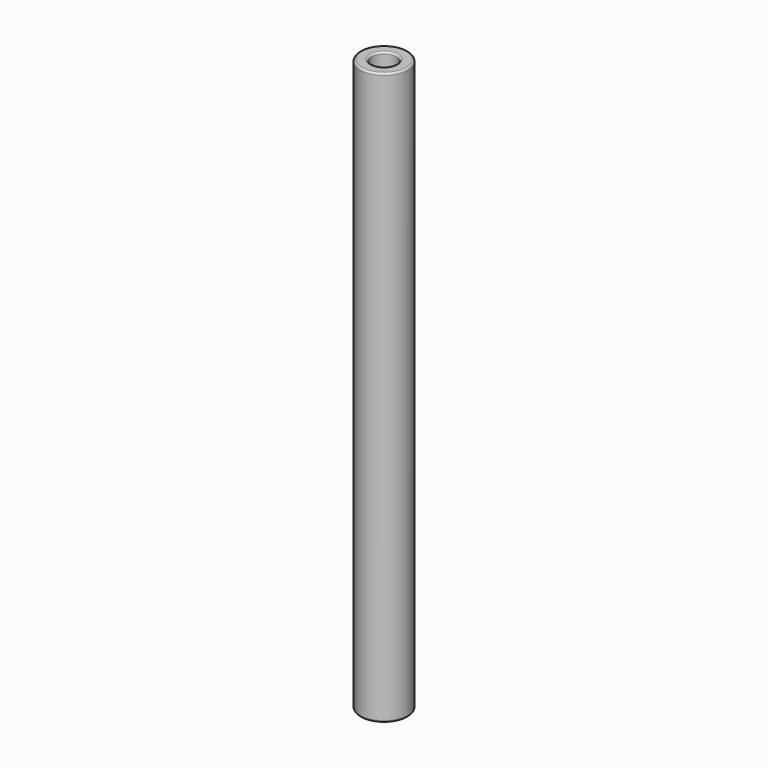
from build123d import *

# Parameters (mm, degrees)
F0_R     = 2.5
F1_DEPTH = 30
F2_R     = 1.3
F3_DEPTH = 10
F4_R     = 1.3
F5_DEPTH = 10
F6_R     = 0.2


with BuildPart() as f1:
    # F0 (on Top) → F1 (new body, symmetric)
    with BuildSketch(Plane.XY):
        Circle(F0_R)
    extrude(amount=F1_DEPTH, both=True)

    # F2 (on face) → F3 (cut)
    with BuildSketch(Plane.XY.offset(30)):
        Circle(F2_R)
    extrude(amount=-F3_DEPTH, mode=Mode.SUBTRACT)

    # F4 (on face) → F5 (cut)
    with BuildSketch(Plane(origin=(0, 0, -30), x_dir=(1, 0, 0), z_dir=(0, 0, -1))):
        Circle(F4_R)
    extrude(amount=-F5_DEPTH, mode=Mode.SUBTRACT)

    # F6
    f6_edges = [f1.edges().sort_by_distance(p)[0] for p in [
        (-2.5, 0, -30),
        (-1.3, 0, -30),
        (-2.5, 0, 30),
        (-1.3, 0, 30),
    ]]
    fillet(f6_edges, radius=F6_R)


solid = f1.part
